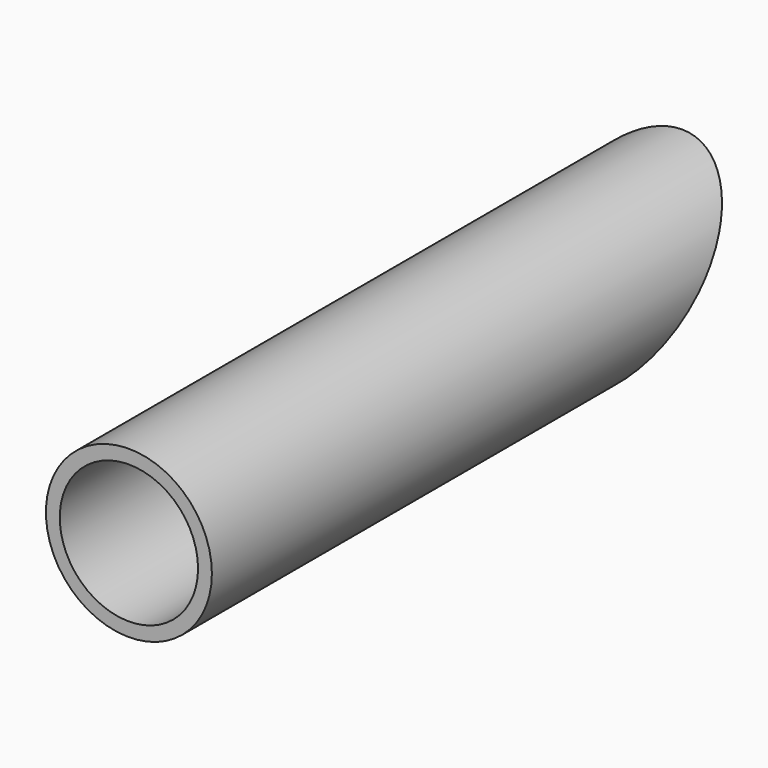
from build123d import *

# Parameters (mm, degrees)
F0_R          = 12
F0_R_2        = 10
F1_DEPTH      = 100
F3_DEPTH      = 12.001
F3_DEPTH_BACK = 12.001


with BuildPart() as f1:
    # F0 (on Front) → F1 (new body)
    with BuildSketch(Plane.XZ):
        Circle(F0_R)
        Circle(F0_R_2, mode=Mode.SUBTRACT)
    extrude(amount=-F1_DEPTH)

    # F2 (on Right) → F3 (cut, two sides)
    with BuildSketch(Plane.YZ) as f3_sk:
        Polygon((100, -12), (100, 12), (76, -12), align=None)
    extrude(amount=-F3_DEPTH, mode=Mode.SUBTRACT)
    extrude(f3_sk.sketch, amount=F3_DEPTH_BACK, mode=Mode.SUBTRACT)


solid = f1.part
